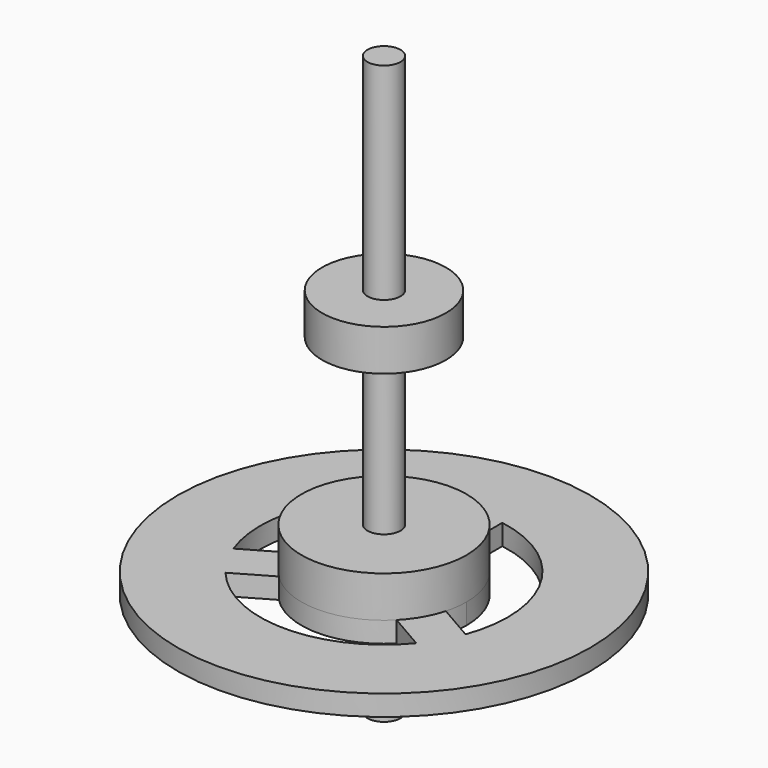
from build123d import *

# Parameters (mm, degrees)
F0_R      = 63.5
F0_R_2    = 38.1
F1_DEPTH  = 6.35
F4_DEPTH  = 6.35
F5_R      = 25.4
F6_DEPTH  = 12.7
F7_R      = 5.08
F8_DEPTH  = 50.8
F9_R      = 5.08
F10_DEPTH = 127
F13_R     = 19.05
F14_DEPTH = 12.7


with BuildPart() as f1:
    # F0 (on Top) → F1 (new body)
    with BuildSketch(Plane.XY):
        Circle(F0_R)
        Circle(F0_R_2, mode=Mode.SUBTRACT)
    extrude(amount=F1_DEPTH)

    # F2 (on Top) → F4 (join, through all)
    with BuildSketch(Plane.XY):
        with BuildLine():
            ThreePointArc((25.4, 0), (20.080463, 15.55426), (6.35, 24.593444))
            ThreePointArc((6.35, 24.593444), (0, 25.4), (-6.35, 24.593444))
            ThreePointArc((-6.35, 24.593444), (-21.997045, 12.7), (-24.473547, -6.797461))
            ThreePointArc((-24.473547, -6.797461), (-21.997045, -12.7), (-18.123547, -17.795983))
            ThreePointArc((-18.123547, -17.795983), (0, -25.4), (18.123547, -17.795983))
            ThreePointArc((18.123547, -17.795983), (21.997045, -12.7), (24.473547, -6.797461))
            ThreePointArc((24.473547, -6.797461), (25.167321, -3.430153), (25.4, 0))
        make_face()
        with BuildLine():
            Line((-24.473547, -6.797461), (-46.824033, -19.70152))
            ThreePointArc((-46.824033, -19.70152), (-43.994091, -25.4), (-40.474033, -30.700043))
            Line((-40.474033, -30.700043), (-18.123547, -17.795983))
            ThreePointArc((-18.123547, -17.795983), (-21.997045, -12.7), (-24.473547, -6.797461))
        make_face()
        with BuildLine():
            Line((6.35, 24.593444), (6.35, 50.401562))
            ThreePointArc((6.35, 50.401562), (0, 50.8), (-6.35, 50.401562))
            Line((-6.35, 50.401562), (-6.35, 24.593444))
            ThreePointArc((-6.35, 24.593444), (0, 25.4), (6.35, 24.593444))
        make_face()
        with BuildLine():
            ThreePointArc((40.474033, -30.700043), (43.994091, -25.4), (46.824033, -19.70152))
            Line((46.824033, -19.70152), (24.473547, -6.797461))
            ThreePointArc((24.473547, -6.797461), (21.997045, -12.7), (18.123547, -17.795983))
            Line((18.123547, -17.795983), (40.474033, -30.700043))
        make_face()
    extrude(amount=F4_DEPTH)

    # F5 (on face) → F6 (join)
    with BuildSketch(Plane.XY.offset(6.35)):
        Circle(F5_R)
    extrude(amount=F6_DEPTH)

    # F7 (on face) → F8 (join)
    with BuildSketch(Plane.XY.offset(19.05)):
        Circle(F7_R)
    extrude(amount=-F8_DEPTH)

    # F9 (on face) → F10 (join)
    with BuildSketch(Plane.XY.offset(19.05)):
        Circle(F9_R)
    extrude(amount=F10_DEPTH)

    # F13 (on plane+point) → F14 (join)
    with BuildSketch(Plane.XY.offset(69.85)):
        Circle(F13_R)
    extrude(amount=F14_DEPTH)


solid = f1.part
